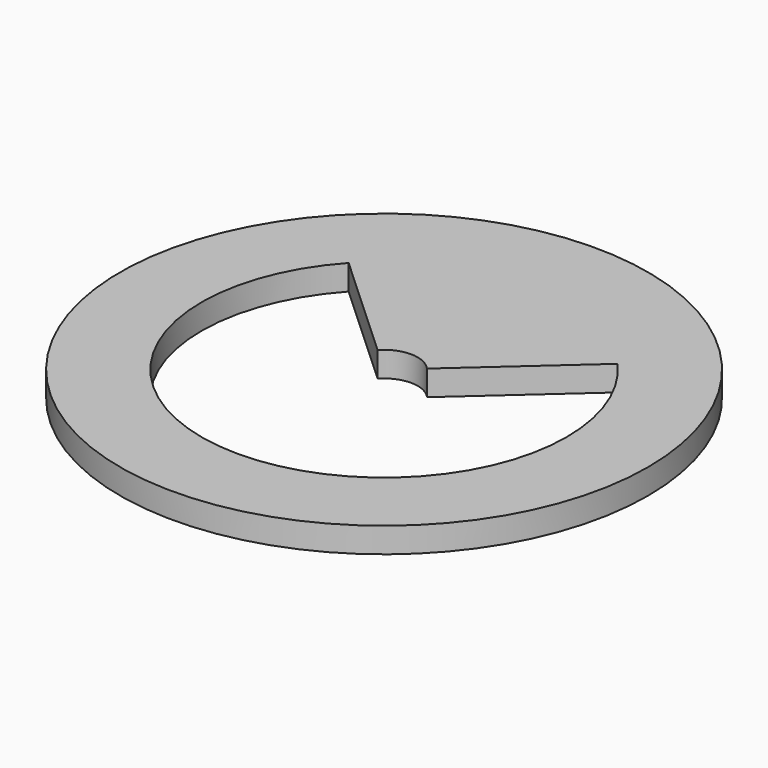
from build123d import *

# Parameters (mm, degrees)
F0_R     = 49.911
F0_R_2   = 6.35
F1_DEPTH = 4.7625
F3_DEPTH = 9.144


with BuildPart() as f1:
    # F0 (on Top) → F1 (new body)
    with BuildSketch(Plane.XY):
        Circle(F0_R)
        Circle(F0_R_2, mode=Mode.SUBTRACT)
    extrude(amount=F1_DEPTH)

    # F2 (on face) → F3 (cut)
    with BuildSketch(Plane(origin=(0, 0, 0), x_dir=(1, 0, 0), z_dir=(0, 0, -1))):
        with BuildLine():
            ThreePointArc((25.7526882864, -22.9879649836), (32.253966126, -12.3015916531), (34.5202475087, 0))
            ThreePointArc((34.5202475087, 0), (-12.546596424, 32.1594528286), (-25.3999721233, -23.3771021343))
            Line((-25.3999721233, -23.3771021343), (-4.6723252185, -4.3002182564))
            ThreePointArc((-4.6723252185, -4.3002182564), (-2.3079465833, 5.9157317864), (6.35, 0))
            ThreePointArc((6.35, 0), (5.9331175088, -2.2628779524), (4.7372073615, -4.2286364722))
            Line((4.7372073615, -4.2286364722), (25.7526882864, -22.9879649836))
        make_face()
    extrude(amount=-F3_DEPTH, mode=Mode.SUBTRACT)


solid = f1.part
